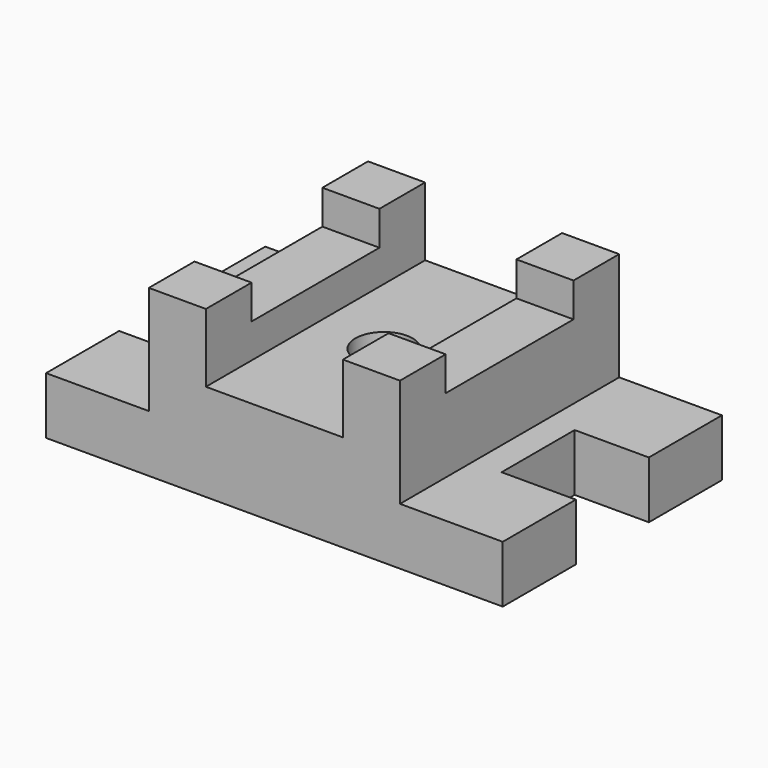
from build123d import *

# Parameters (mm, degrees)
F1_DEPTH = 53.975
F0_W     = 31.75
F0_H     = 88.9
F2_DEPTH = 73.025
F3_DEPTH = 31.75
F0_H_2   = 31.75
F4_DEPTH = 92.075
F5_R     = 15.875
F6_DEPTH = 53.975


with BuildPart() as f1:
    # F0 (on Top) → F1 (new body)
    with BuildSketch(Plane.XY):
        Polygon((38.1, 44.45), (38.1, 76.2), (-38.1, 76.2), (-38.1, 44.45), (-38.1, -44.45), (-38.1, -76.2), (38.1, -76.2), (38.1, -44.45), align=None)
    extrude(amount=F1_DEPTH)

    # F0 (on Top) → F2 (join)
    with BuildSketch(Plane.XY):
        with Locations((-53.975, 0)):
            Rectangle(F0_W, F0_H)
        with Locations((53.975, 0)):
            Rectangle(F0_W, F0_H)
    extrude(amount=F2_DEPTH)

    # F0 (on Top) → F3 (join)
    with BuildSketch(Plane.XY):
        Polygon((-69.85, 44.45), (-69.85, 76.2), (-127, 76.2), (-127, 25.4), (-85.725, 25.4), (-85.725, -25.4), (-127, -25.4), (-127, -76.2), (-69.85, -76.2), (-69.85, -44.45), align=None)
        Polygon((127, 25.4), (127, 76.2), (69.85, 76.2), (69.85, 44.45), (69.85, -44.45), (69.85, -76.2), (127, -76.2), (127, -25.4), (85.725, -25.4), (85.725, 25.4), align=None)
    extrude(amount=F3_DEPTH)

    # F0 (on Top) → F4 (join)
    with BuildSketch(Plane.XY):
        with Locations((53.975, -60.325)):
            Rectangle(F0_W, F0_H_2)
        with Locations((-53.975, -60.325)):
            Rectangle(F0_W, F0_H_2)
        with Locations((53.975, 60.325)):
            Rectangle(F0_W, F0_H_2)
        with Locations((-53.975, 60.325)):
            Rectangle(F0_W, F0_H_2)
    extrude(amount=F4_DEPTH)

    # F5 (on face) → F6 (cut)
    with BuildSketch(Plane.XY.offset(53.975)):
        Circle(F5_R)
    extrude(amount=-F6_DEPTH, mode=Mode.SUBTRACT)


solid = f1.part
